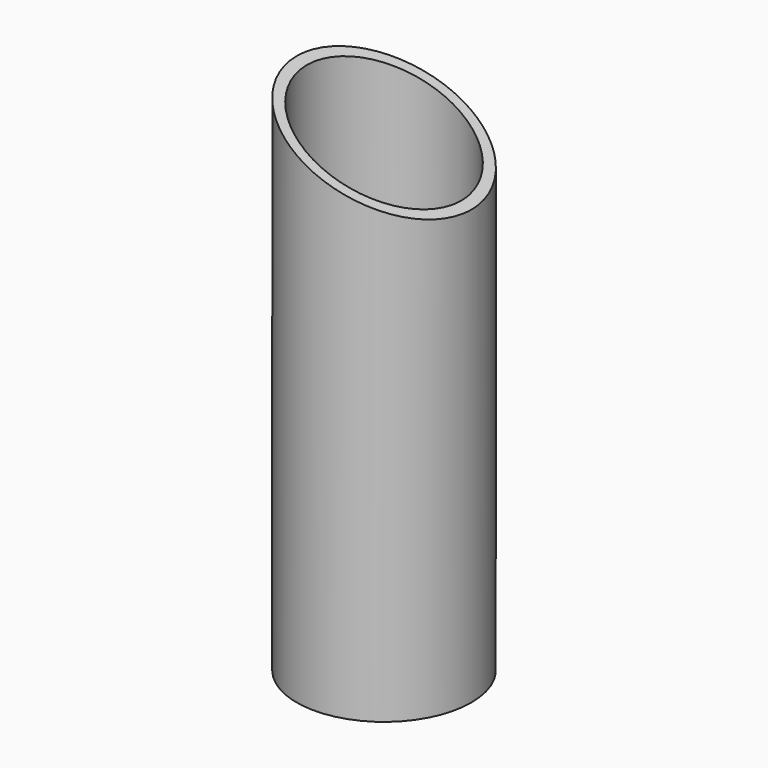
from build123d import *

# Parameters (mm, degrees)
F0_R          = 38.1
F0_R_2        = 33.655
F1_DEPTH      = 254
F3_DEPTH      = 54.864
F3_DEPTH_BACK = 56.896


with BuildPart() as f1:
    # F0 (on Top) → F1 (new body)
    with BuildSketch(Plane.XY):
        Circle(F0_R)
        Circle(F0_R_2, mode=Mode.SUBTRACT)
    extrude(amount=F1_DEPTH)

    # F2 (on Front) → F3 (cut, two sides)
    with BuildSketch(Plane.XZ) as f3_sk:
        Polygon((52.692450583, 261.5367621183), (-122.8564327484, 261.5367621183), (52.692450583, 182.7080850374), align=None)
    extrude(amount=-F3_DEPTH, mode=Mode.SUBTRACT)
    extrude(f3_sk.sketch, amount=F3_DEPTH_BACK, mode=Mode.SUBTRACT)


solid = f1.part
